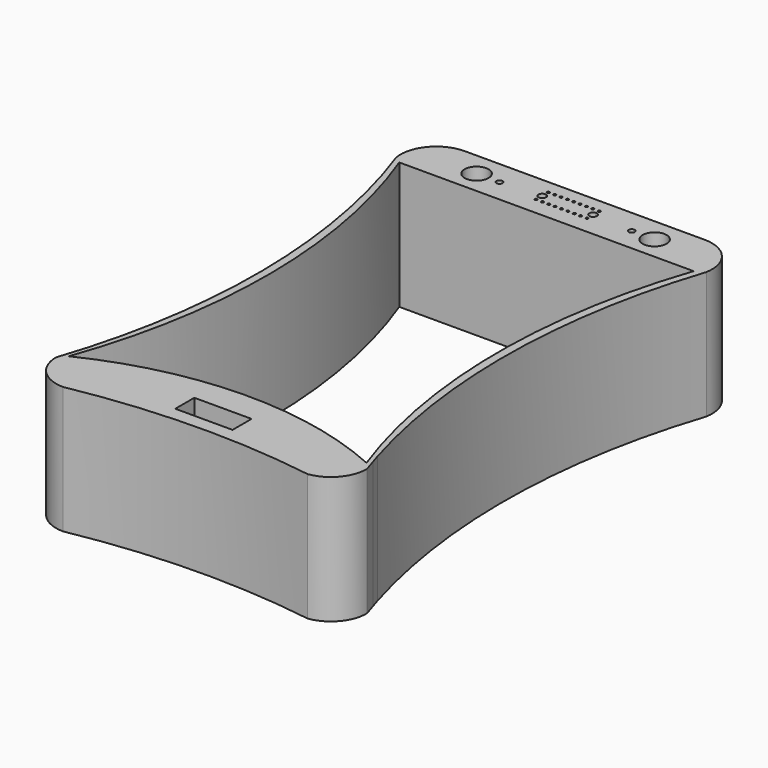
from build123d import *

# Parameters (mm, degrees)
F0_R     = 2.35
F0_R_2   = 0.6
F0_W     = 11.2562068871
F0_H     = 4.6791491237
F1_DEPTH = 25


with BuildPart() as f1:
    # F0 (on Top) → F1 (new body)
    with BuildSketch(Plane.XY):
        with BuildLine():
            Line((14.3979561755, 29.7439676553), (-32.8092921048, 29.7439676553))
            ThreePointArc((-32.8092921048, 29.7439676553), (-38.1665301992, 27.2495197857), (-39.7056679646, 21.5439676553))
            Line((-39.7056679646, 21.5439676553), (21.2943320354, 21.5439676553))
            ThreePointArc((21.2943320354, 21.5439676553), (19.7551942699, 27.2495197857), (14.3979561755, 29.7439676553))
        make_face()
        with Locations((-26.7056679646, 25.0439676553)):
            Circle(F0_R, mode=Mode.SUBTRACT)
        with Locations((-22.2056679646, 25.0439676553)):
            Circle(F0_R_2, mode=Mode.SUBTRACT)
        with BuildLine():
            ThreePointArc((-14.2060092107, 24.2939676534), (-14.0292525699, 24.2207333822), (-13.9560402329, 24.0439676553))
            ThreePointArc((-13.9560402329, 24.0439676553), (-14.3828278959, 23.8672019284), (-14.2060092107, 24.2939676534))
        make_face(mode=Mode.SUBTRACT)
        with BuildLine():
            ThreePointArc((-13.4558540993, 25.5439676553), (-13.6755569185, 25.0136046664), (-14.2059471661, 24.7939676611))
            ThreePointArc((-14.2059471661, 24.7939676611), (-14.9558540936, 25.5440607221), (-14.2057610325, 26.2939676495))
            ThreePointArc((-14.2057610325, 26.2939676495), (-13.6754911104, 26.0742648361), (-13.4558540993, 25.5439676553))
        make_face(mode=Mode.SUBTRACT)
        with BuildLine():
            ThreePointArc((-13.9556679658, 27.0439676553), (-14.0289022388, 26.8671799923), (-14.205698988, 26.7939676572))
            ThreePointArc((-14.205698988, 26.7939676572), (-14.3824336927, 27.2207553183), (-13.9556679658, 27.0439676553))
        make_face(mode=Mode.SUBTRACT)
        with BuildLine():
            ThreePointArc((-13.2056679646, 24.0439676553), (-12.9556679646, 24.2939676553), (-12.7056679646, 24.0439676553))
            ThreePointArc((-12.7056679646, 24.0439676553), (-12.9556679646, 23.7939676553), (-13.2056679646, 24.0439676553))
        make_face(mode=Mode.SUBTRACT)
        with BuildLine():
            ThreePointArc((-11.9557127462, 24.0439676553), (-11.7057127462, 24.2939676553), (-11.4557127462, 24.0439676553))
            ThreePointArc((-11.4557127462, 24.0439676553), (-11.7057127462, 23.7939676553), (-11.9557127462, 24.0439676553))
        make_face(mode=Mode.SUBTRACT)
        with BuildLine():
            ThreePointArc((-10.7056679646, 24.0439676553), (-10.4556679646, 24.2939676553), (-10.2056679646, 24.0439676553))
            ThreePointArc((-10.2056679646, 24.0439676553), (-10.4556679646, 23.7939676553), (-10.7056679646, 24.0439676553))
        make_face(mode=Mode.SUBTRACT)
        with BuildLine():
            ThreePointArc((-9.4556679644, 24.0439676553), (-9.2056679644, 24.2939676553), (-8.9556679644, 24.0439676553))
            ThreePointArc((-8.9556679644, 24.0439676553), (-9.2056679644, 23.7939676553), (-9.4556679644, 24.0439676553))
        make_face(mode=Mode.SUBTRACT)
        with BuildLine():
            ThreePointArc((-13.2056679651, 27.0439676553), (-12.9556679651, 27.2939676553), (-12.7056679651, 27.0439676553))
            ThreePointArc((-12.7056679651, 27.0439676553), (-12.9556679651, 26.7939676553), (-13.2056679651, 27.0439676553))
        make_face(mode=Mode.SUBTRACT)
        with BuildLine():
            ThreePointArc((-11.9556679649, 27.0439676553), (-11.7056679649, 27.2939676553), (-11.4556679649, 27.0439676553))
            ThreePointArc((-11.4556679649, 27.0439676553), (-11.7056679649, 26.7939676553), (-11.9556679649, 27.0439676553))
        make_face(mode=Mode.SUBTRACT)
        with BuildLine():
            ThreePointArc((-10.7056679648, 27.0439676553), (-10.4556679648, 27.2939676553), (-10.2056679648, 27.0439676553))
            ThreePointArc((-10.2056679648, 27.0439676553), (-10.4556679648, 26.7939676553), (-10.7056679648, 27.0439676553))
        make_face(mode=Mode.SUBTRACT)
        with BuildLine():
            ThreePointArc((-9.4556679646, 27.0439676553), (-9.2056679646, 27.2939676553), (-8.9556679646, 27.0439676553))
            ThreePointArc((-8.9556679646, 27.0439676553), (-9.2056679646, 26.7939676553), (-9.4556679646, 27.0439676553))
        make_face(mode=Mode.SUBTRACT)
        with BuildLine():
            ThreePointArc((-8.2056679646, 24.0439676553), (-7.9556679646, 24.2939676553), (-7.7056679646, 24.0439676553))
            ThreePointArc((-7.7056679646, 24.0439676553), (-7.9556679646, 23.7939676553), (-8.2056679646, 24.0439676553))
        make_face(mode=Mode.SUBTRACT)
        with BuildLine():
            ThreePointArc((-6.9557127451, 24.0439676553), (-6.7057127451, 24.2939676553), (-6.4557127451, 24.0439676553))
            ThreePointArc((-6.4557127451, 24.0439676553), (-6.7057127451, 23.7939676553), (-6.9557127451, 24.0439676553))
        make_face(mode=Mode.SUBTRACT)
        with BuildLine():
            ThreePointArc((-5.7056679646, 24.0439676553), (-5.4556679646, 24.2939676553), (-5.2056679646, 24.0439676553))
            ThreePointArc((-5.2056679646, 24.0439676553), (-5.4556679646, 23.7939676553), (-5.7056679646, 24.0439676553))
        make_face(mode=Mode.SUBTRACT)
        with BuildLine():
            ThreePointArc((-8.2056679645, 27.0439676553), (-7.9556679645, 27.2939676553), (-7.7056679645, 27.0439676553))
            ThreePointArc((-7.7056679645, 27.0439676553), (-7.9556679645, 26.7939676553), (-8.2056679645, 27.0439676553))
        make_face(mode=Mode.SUBTRACT)
        with BuildLine():
            ThreePointArc((-6.9556679644, 27.0439676553), (-6.7056679644, 27.2939676553), (-6.4556679644, 27.0439676553))
            ThreePointArc((-6.4556679644, 27.0439676553), (-6.7056679644, 26.7939676553), (-6.9556679644, 27.0439676553))
        make_face(mode=Mode.SUBTRACT)
        with BuildLine():
            ThreePointArc((-5.7056679642, 27.0439676553), (-5.4556679642, 27.2939676553), (-5.2056679642, 27.0439676553))
            ThreePointArc((-5.2056679642, 27.0439676553), (-5.4556679642, 26.7939676553), (-5.7056679642, 27.0439676553))
        make_face(mode=Mode.SUBTRACT)
        with BuildLine():
            ThreePointArc((-4.4552956958, 24.0439676553), (-4.3820723911, 24.2207443506), (-4.2052956958, 24.2939676553))
            ThreePointArc((-4.2052956958, 24.2939676553), (-4.0285190005, 24.2207443506), (-3.9552956958, 24.0439676553))
            ThreePointArc((-3.9552956958, 24.0439676553), (-4.2052956958, 23.7939676553), (-4.4552956958, 24.0439676553))
        make_face(mode=Mode.SUBTRACT)
        with BuildLine():
            ThreePointArc((-4.2052956958, 26.2927266955), (-3.6749656099, 26.0730567814), (-3.4552956958, 25.5427266955))
            ThreePointArc((-3.4552956958, 25.5427266955), (-3.6749656099, 25.0123966096), (-4.2052956958, 24.7927266955))
            ThreePointArc((-4.2052956958, 24.7927266955), (-4.9552956958, 25.5427266955), (-4.2052956958, 26.2927266955))
        make_face(mode=Mode.SUBTRACT)
        with BuildLine():
            ThreePointArc((-4.4552956958, 27.0439676553), (-4.2052956958, 27.2939676553), (-3.9552956958, 27.0439676553))
            ThreePointArc((-3.9552956958, 27.0439676553), (-4.0285190005, 26.86719096), (-4.2052956958, 26.7939676553))
            ThreePointArc((-4.2052956958, 26.7939676553), (-4.3820723911, 26.86719096), (-4.4552956958, 27.0439676553))
        make_face(mode=Mode.SUBTRACT)
        with BuildLine():
            ThreePointArc((3.1943320354, 25.0439676553), (3.7943320354, 25.6439676553), (4.3943320354, 25.0439676553))
            ThreePointArc((4.3943320354, 25.0439676553), (3.7943320354, 24.4439676553), (3.1943320354, 25.0439676553))
        make_face(mode=Mode.SUBTRACT)
        with Locations((8.2943320354, 25.0439676553)):
            Circle(F0_R, mode=Mode.SUBTRACT)
        with BuildLine():
            Line((21.2943320354, 21.5439676553), (-39.7056679646, 21.5439676553))
            ThreePointArc((-39.7056679646, 21.5439676553), (-32.2227110241, -20.6618643282), (-38.9579393192, -62.9934553426))
            ThreePointArc((-38.9579393192, -62.9934553426), (-24.3057130509, -57.6752555094), (-8.8414815134, -55.7185932914))
            ThreePointArc((-8.8414815134, -55.7185932914), (6.6735895327, -57.2197776633), (21.4758319523, -62.1049187496))
            ThreePointArc((21.4758319523, -62.1049187496), (21.0704059046, -60.8750508624), (20.6770190087, -59.6412793882))
            ThreePointArc((20.6770190087, -59.6412793882), (20.3861242332, -58.701088988), (20.102220838, -57.7587638735))
            ThreePointArc((20.102220838, -57.7587638735), (14.6254783963, -18.0161093174), (21.2943320354, 21.5439676553))
        make_face()
        with BuildLine():
            ThreePointArc((20.1618171154, -60.5971505286), (5.9837949331, -56.0337141088), (-8.8453337957, -54.6415194007))
            ThreePointArc((-8.8453337957, -54.6415194007), (-23.6223514922, -56.4857159211), (-37.6520263883, -61.4786644604))
            ThreePointArc((-37.6520263883, -61.4786644604), (-30.6700495718, -20.4154751217), (-38.3026989884, 20.5317614372))
            Line((-38.3026989884, 20.5317614372), (19.5693860733, 20.5317614372))
            ThreePointArc((19.5693860733, 20.5317614372), (12.9591755519, -20.083127629), (20.1618171154, -60.5971505286))
        make_face(mode=Mode.SUBTRACT)
        with BuildLine():
            ThreePointArc((-8.8414815134, -55.7185932914), (-24.3057130509, -57.6752555094), (-38.9579393192, -62.9934553426))
            ThreePointArc((-38.9579393192, -62.9934553426), (-36.9077506183, -67.9433195168), (-31.9579393215, -69.9936358778))
            ThreePointArc((-31.9579393215, -69.9936358778), (-8.2896342498, -67.5792618139), (15.448370366, -69.168287914))
            ThreePointArc((15.448370366, -69.168287914), (19.8018461507, -66.7798624881), (21.4758319523, -62.1049187496))
            ThreePointArc((21.4758319523, -62.1049187496), (6.6735895327, -57.2197776633), (-8.8414815134, -55.7185932914))
        make_face()
        with Locations((-8.3661192098, -62.5506510849)):
            Rectangle(F0_W, F0_H, mode=Mode.SUBTRACT)
        with BuildLine():
            Line((20.6983805739, -59.645034679), (20.102220838, -57.7587638735))
            ThreePointArc((20.102220838, -57.7587638735), (20.3861242332, -58.701088988), (20.6770190087, -59.6412793882))
            Line((20.6770190087, -59.6412793882), (20.6983805739, -59.645034679))
        make_face()
        with BuildLine():
            Line((20.6983805739, -59.645034679), (20.6770190087, -59.6412793882))
            ThreePointArc((20.6770190087, -59.6412793882), (21.0704059046, -60.8750508624), (21.4758319523, -62.1049187496))
            Line((21.4758319523, -62.1049187496), (20.6983805739, -59.645034679))
        make_face()
    extrude(amount=F1_DEPTH)


solid = f1.part
